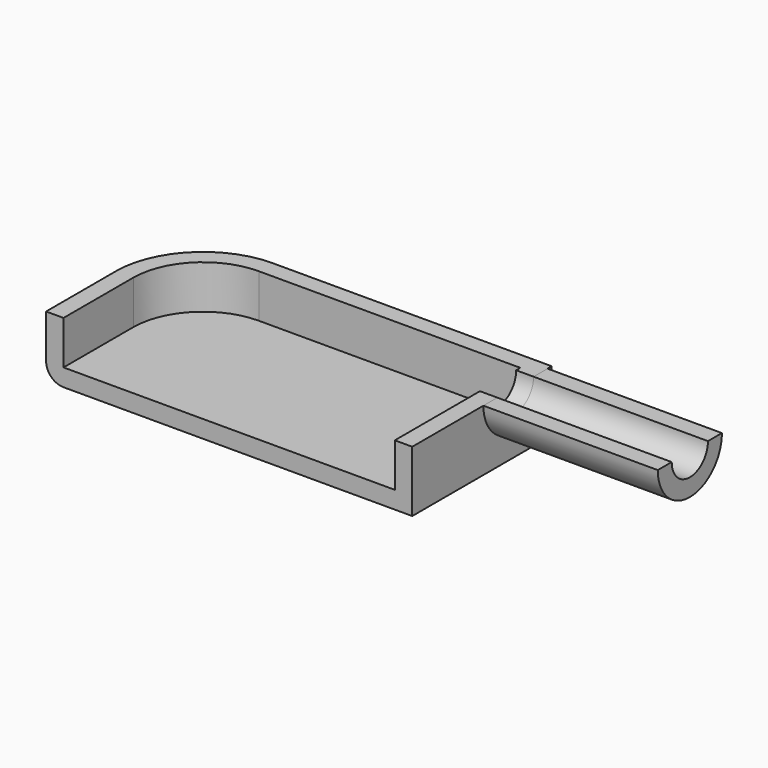
from build123d import *

# Parameters (mm, degrees)
F1_DEPTH = 3.5
F3_DEPTH = 2.5
F4_R     = 1
F5_R     = 1.3
F6_DEPTH = 7.7
F8_DEPTH = 10


with BuildPart() as f1:
    # F0 (on Top) → F1 (new body)
    with BuildSketch(Plane.XY):
        with BuildLine():
            Line((11.973215, 8.690146), (-4.026785, 8.690146))
            ThreePointArc((-4.026785, 8.690146), (-7.562319, 7.22568), (-9.026785, 3.690146))
            Line((-9.026785, 3.690146), (-9.026785, -1.309854))
            Line((-9.026785, -1.309854), (11.973215, -1.309854))
            Line((11.973215, -1.309854), (11.973215, 8.690146))
        make_face()
    extrude(amount=F1_DEPTH)

    # F2 (on face) → F3 (cut)
    with BuildSketch(Plane.XY.offset(3.5)):
        with BuildLine():
            ThreePointArc((-4.026785, 7.690146), (-6.855212, 6.518573), (-8.026785, 3.690146))
            Line((-8.026785, 3.690146), (-8.026785, -1.309854))
            Line((-8.026785, -1.309854), (10.973215, -1.309854))
            Line((10.973215, -1.309854), (10.973215, 7.690146))
            Line((10.973215, 7.690146), (-4.026785, 7.690146))
        make_face()
    extrude(amount=-F3_DEPTH, mode=Mode.SUBTRACT)

    # F4
    f4_edges = [f1.edges().sort_by_distance(p)[0] for p in [
        (3.973215, 8.690146, 0),
        (-7.562319, 7.22568, 0),
        (-9.026785, 1.190146, 0),
    ]]
    fillet(f4_edges, radius=F4_R)

    # F5 (on face) → F6 (cut)
    with BuildSketch(Plane.YZ.offset(11.973215)):
        with Locations((6.090311, 3.5)):
            Circle(F5_R)
    extrude(amount=-F6_DEPTH, mode=Mode.SUBTRACT)

    # F7 (on face) → F8 (join)
    with BuildSketch(Plane.YZ.offset(11.973215)):
        with BuildLine():
            Line((8.390311, 3.5), (7.390311, 3.5))
            ThreePointArc((7.390311, 3.5), (6.090311, 2.2), (4.790311, 3.5))
            Line((4.790311, 3.5), (3.790311, 3.5))
            ThreePointArc((3.790311, 3.5), (6.090311, 1.2), (8.390311, 3.5))
        make_face()
    extrude(amount=F8_DEPTH)


solid = f1.part
